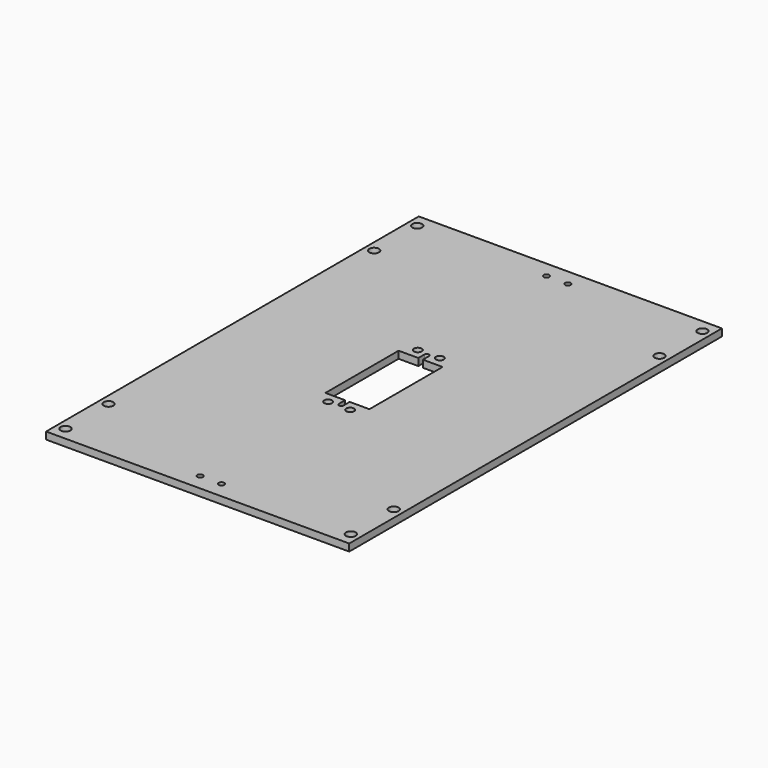
from build123d import *

# Parameters (mm, degrees)
F0_W     = 134.69465
F0_H     = 206.984854
F0_R     = 2.15265
F0_R_2   = 1.25
F0_R_3   = 1.7272
F1_DEPTH = 3.175


with BuildPart() as f1:
    # F0 (on Top) → F1 (new body)
    with BuildSketch(Plane.XY):
        Rectangle(F0_W, F0_H)
        with Locations((-63.378575, -97.650427)):
            Circle(F0_R, mode=Mode.SUBTRACT)
        with Locations((-63.378575, -73.774427)):
            Circle(F0_R, mode=Mode.SUBTRACT)
        with Locations((-4.750003, -96.192416)):
            Circle(F0_R_2, mode=Mode.SUBTRACT)
        with Locations((-4.8895, -24.892)):
            Circle(F0_R_3, mode=Mode.SUBTRACT)
        with Locations((4.750003, -96.192416)):
            Circle(F0_R_2, mode=Mode.SUBTRACT)
        with Locations((63.378575, -97.650427)):
            Circle(F0_R, mode=Mode.SUBTRACT)
        with Locations((63.378575, -73.774427)):
            Circle(F0_R, mode=Mode.SUBTRACT)
        with Locations((4.8895, -24.892)):
            Circle(F0_R_3, mode=Mode.SUBTRACT)
        with BuildLine():
            Line((-1.016, -20.32), (-9.779, -20.32))
            Line((-9.779, -20.32), (-9.779, 20.32))
            Line((-9.779, 20.32), (-1.016, 20.32))
            Line((-1.016, 20.32), (-1.016, 23.749))
            ThreePointArc((-1.016, 23.749), (0, 24.765), (1.016, 23.749))
            Line((1.016, 23.749), (1.016, 20.32))
            Line((1.016, 20.32), (9.779, 20.32))
            Line((9.779, 20.32), (9.779, -20.32))
            Line((9.779, -20.32), (1.016, -20.32))
            Line((1.016, -20.32), (1.016, -23.749))
            ThreePointArc((1.016, -23.749), (0, -24.765), (-1.016, -23.749))
            Line((-1.016, -23.749), (-1.016, -20.32))
        make_face(mode=Mode.SUBTRACT)
        with Locations((-4.8895, 24.892)):
            Circle(F0_R_3, mode=Mode.SUBTRACT)
        with Locations((-63.378575, 73.774427)):
            Circle(F0_R, mode=Mode.SUBTRACT)
        with Locations((-63.378575, 97.650427)):
            Circle(F0_R, mode=Mode.SUBTRACT)
        with Locations((-4.750003, 96.192416)):
            Circle(F0_R_2, mode=Mode.SUBTRACT)
        with Locations((4.8895, 24.892)):
            Circle(F0_R_3, mode=Mode.SUBTRACT)
        with Locations((4.750003, 96.192416)):
            Circle(F0_R_2, mode=Mode.SUBTRACT)
        with Locations((63.378575, 73.774427)):
            Circle(F0_R, mode=Mode.SUBTRACT)
        with Locations((63.378575, 97.650427)):
            Circle(F0_R, mode=Mode.SUBTRACT)
    extrude(amount=F1_DEPTH)


solid = f1.part
